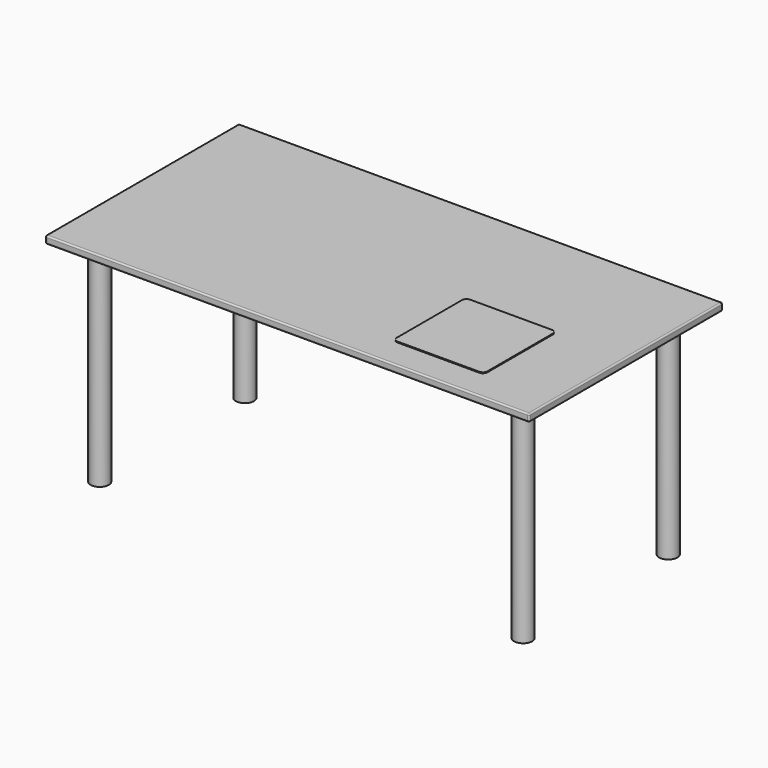
from build123d import *

# Parameters (mm, degrees)
F0_W     = 1600
F0_H     = 800
F1_DEPTH = 25
F2_R     = 5
F3_R     = 30
F4_DEPTH = 700
F6_DEPTH = 3


with BuildPart() as f1:
    # F0 (on Top) → F1 (new body)
    with BuildSketch(Plane.XY):
        Rectangle(F0_W, F0_H)
    extrude(amount=F1_DEPTH)

    # F2
    f2_edges = [f1.edges().sort_by_distance(p)[0] for p in [
        (0, -400, 25),
        (0, -400, 0),
        (-800, 0, 25),
        (-800, 0, 0),
        (800, 0, 0),
        (800, 0, 25),
        (0, 400, 0),
        (0, 400, 25),
        (800, 400, 12.5),
        (800, -400, 12.5),
        (-800, -400, 12.5),
        (-800, 400, 12.5),
    ]]
    fillet(f2_edges, radius=F2_R)


with BuildPart() as f4:
    # F3 (on face) → F4 (new body)
    with BuildSketch(Plane(origin=(0, 0, 0), x_dir=(1, 0, 0), z_dir=(0, 0, -1))):
        with Locations((-700, 300)):
            Circle(F3_R)
        with Locations((700, 300)):
            Circle(F3_R)
        with Locations((700, -300)):
            Circle(F3_R)
        with Locations((-700, -300)):
            Circle(F3_R)
    extrude(amount=F4_DEPTH)


with BuildPart() as f6:
    # F5 (on face) → F6 (new body)
    with BuildSketch(Plane.XY.offset(25)):
        with BuildLine():
            Line((285, -300), (555, -300))
            ThreePointArc((555, -300), (565.606602, -295.606602), (570, -285))
            Line((570, -285), (570, -15))
            ThreePointArc((570, -15), (565.606602, -4.393398), (555, 0))
            Line((555, 0), (285, 0))
            ThreePointArc((285, 0), (274.393398, -4.393398), (270, -15))
            Line((270, -15), (270, -285))
            ThreePointArc((270, -285), (274.393398, -295.606602), (285, -300))
        make_face()
    extrude(amount=F6_DEPTH)


solid = Compound([f1.part, f4.part, f6.part])
